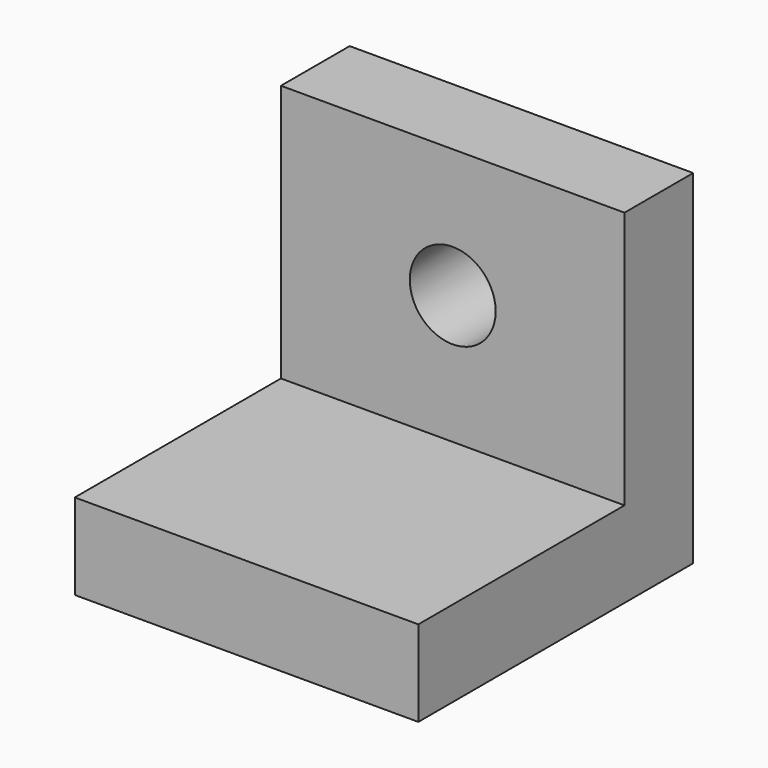
from build123d import *

# Parameters (mm, degrees)
F0_W     = 50.8
F0_H     = 12.7
F1_DEPTH = 50.8
F0_H_2   = 38.1
F2_DEPTH = 12.7
F3_R     = 6.35
F4_DEPTH = 25.4


with BuildPart() as f1:
    # F0 (on Top) → F1 (new body)
    with BuildSketch(Plane.XY):
        with Locations((7.892169, 17.022095)):
            Rectangle(F0_W, F0_H)
    extrude(amount=F1_DEPTH)

    # F0 (on Top) → F2 (join)
    with BuildSketch(Plane.XY):
        with Locations((7.892169, -8.377905)):
            Rectangle(F0_W, F0_H_2)
        with Locations((7.892169, 17.022095)):
            Rectangle(F0_W, F0_H)
    extrude(amount=F2_DEPTH)

    # F3 (on face) → F4 (cut)
    with BuildSketch(Plane.XZ.offset(-10.672095)):
        with Locations((7.892169, 31.75)):
            Circle(F3_R)
    extrude(amount=-F4_DEPTH, mode=Mode.SUBTRACT)


solid = f1.part
